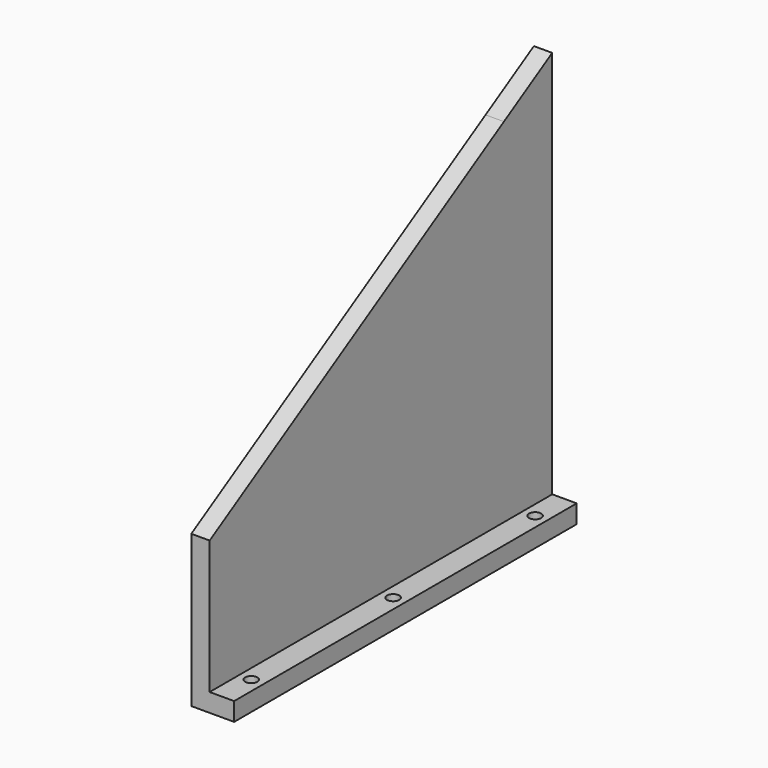
from build123d import *

# Parameters (mm, degrees)
F0_W     = 35
F0_H     = 350
F0_R     = 5
F1_DEPTH = 15
F2_W     = 15
F2_H     = 350
F3_DEPTH = 109
F5_DEPTH = 15
F7_DEPTH = 5


with BuildPart() as f1:
    # F0 (on Top) → F1 (new body)
    with BuildSketch(Plane.XY):
        with Locations((-57.72887, 129.090141)):
            Rectangle(F0_W, F0_H)
        with Locations((-50.22887, -15.909859)):
            Circle(F0_R, mode=Mode.SUBTRACT)
        with Locations((-50.22887, 129.090141)):
            Circle(F0_R, mode=Mode.SUBTRACT)
        with Locations((-50.22887, 274.090141)):
            Circle(F0_R, mode=Mode.SUBTRACT)
    extrude(amount=F1_DEPTH)

    # F2 (on face) → F3 (join)
    with BuildSketch(Plane.XY.offset(15)):
        with Locations((-67.72887, 129.090141)):
            Rectangle(F2_W, F2_H)
    extrude(amount=F3_DEPTH)

    # F4 (on face) → F5 (join)
    with BuildSketch(Plane.YZ.offset(-60.22887)):
        Polygon((254.726105, 303.215003), (-45.909859, 124), (304.090141, 124), (304.090141, 332.641874), align=None)
    extrude(amount=-F5_DEPTH)

    # F6 (on face) → F7 (cut)
    with BuildSketch(Plane(origin=(-75.22887, 0, 0), x_dir=(0, -1, 0), z_dir=(-1, 0, 0))):
        Polygon((36.23861, 117.541139), (39.054846, 122.265419), (-304.090141, 326.820885), (-304.090141, 320.417792), align=None)
    extrude(amount=-F7_DEPTH, mode=Mode.SUBTRACT)


solid = f1.part
